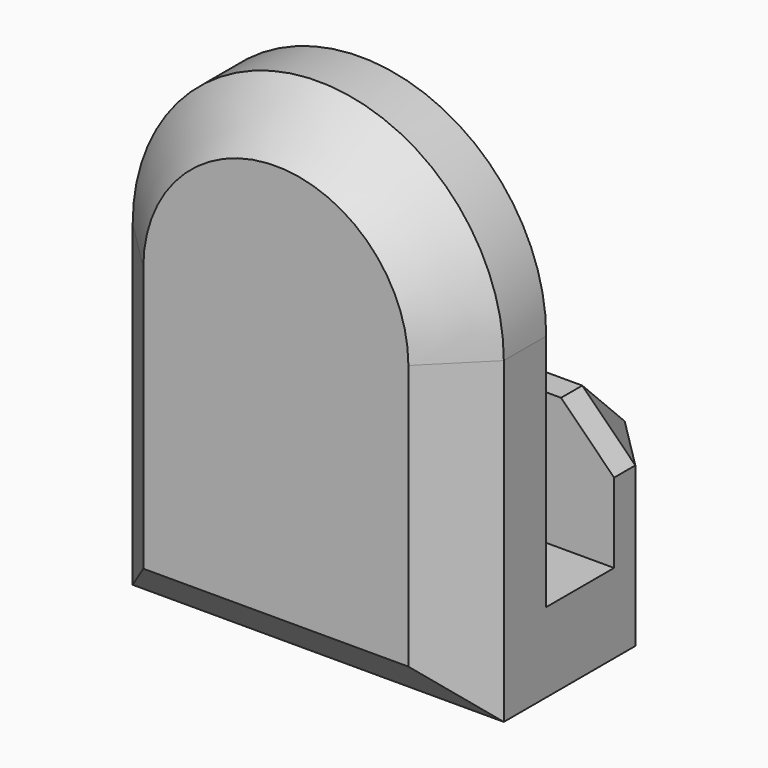
from build123d import *

# Parameters (mm, degrees)
PAD_DEPTH            = 2
SKETCH001_W          = 3.5
SKETCH001_H          = 1.5
POCKET_DEPTH         = 1
SKETCH002_W          = 7
SKETCH002_H          = 1.5
PAD001_DEPTH         = 1.6
SKETCH003_W          = 7
SKETCH003_H          = 4
PAD002_DEPTH         = 1.5
CHAMFER_SIZE         = 1
CHAMFER001_SIZE      = 1
BODY_PLACEMENT_ANGLE = 90


with BuildPart() as part:
    # Sketch (on XY_Plane of Origin) → Pad (new body)
    with BuildSketch(Plane.XY):
        with BuildLine():
            Line((-3.5, -1.5), (-3.5, 4.5))
            ThreePointArc((3.5, 4.5), (0, 8), (-3.5, 4.5))
            Line((3.5, 4.5), (3.5, -1.5))
            Line((3.5, -1.5), (-3.5, -1.5))
        make_face()
    extrude(amount=PAD_DEPTH)

    # Sketch001 (on Face5 of Pad) → Pocket (cut)
    with BuildSketch(Plane(origin=(0, 0, 0), x_dir=(1, 0, 0), z_dir=(0, 0, -1))):
        with Locations((0, -4.5)):
            Rectangle(SKETCH001_W, SKETCH001_H)
    extrude(amount=-POCKET_DEPTH, mode=Mode.SUBTRACT)

    # Sketch002 (on Face4 of Pocket) → Pad001 (join)
    with BuildSketch(Plane(origin=(0, 0, 0), x_dir=(1, 0, 0), z_dir=(0, 0, -1))):
        with Locations((0, 0.75)):
            Rectangle(SKETCH002_W, SKETCH002_H)
    extrude(amount=PAD001_DEPTH)

    # Sketch003 (on Face10 of Pad001) → Pad002 (join)
    with BuildSketch(Plane(origin=(0, 0, -1.6), x_dir=(1, 0, 0), z_dir=(0, 0, -1))):
        with Locations((0, -0.5)):
            Rectangle(SKETCH003_W, SKETCH003_H)
    extrude(amount=PAD002_DEPTH)

    # Chamfer
    chamfer_edges = [part.edges().sort_by_distance(p)[0] for p in [
        (0, -1.5, -3.1),
        (-3.5, 0.5, -3.1),
        (3.5, 0.5, -3.1),
        (0, 2.5, -3.1),
        (-3.5, 2.5, -2.35),
        (3.5, 2.5, -2.35),
    ]]
    chamfer(chamfer_edges, length=CHAMFER_SIZE)

    # Chamfer001
    chamfer001_edges = [part.edges().sort_by_distance(p)[0] for p in [
        (0, 8, 2),
        (0, -1.5, 2),
    ]]
    chamfer(chamfer001_edges, length=CHAMFER001_SIZE)


with BuildPart() as part_1:
    # Body placement: moved
    add(part.part.rotate(Axis((0, 0, 0), (1, 0, 0)), BODY_PLACEMENT_ANGLE))


solid = part_1.part
